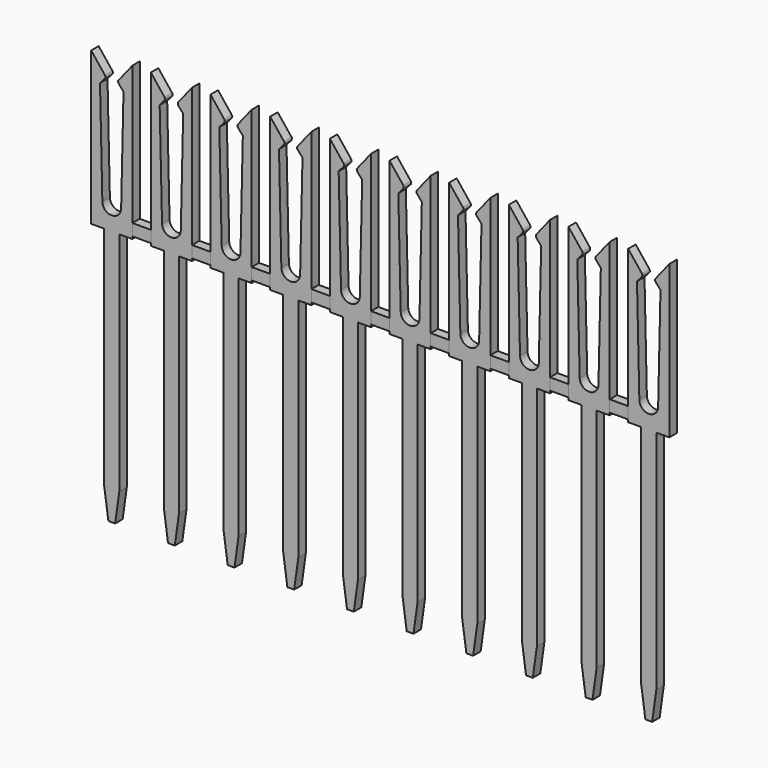
from build123d import *

# Parameters (mm, degrees)
SKETCH005_W            = 22.86
SKETCH005_H            = 0.5
PAD002_DEPTH           = 0.195
PAD001_DEPTH           = 0.2
LINEARPATTERN001_COUNT = 10
LINEARPATTERN001_PITCH = 2.54


with BuildPart() as part:
    # Sketch005 → Pad002 (new body, symmetric)
    with BuildSketch(Plane.XZ):
        with Locations((0, 0.75)):
            Rectangle(SKETCH005_W, SKETCH005_H)
    extrude(amount=PAD002_DEPTH, both=True)

    # Sketch003 → Pad001 (join, symmetric)
    with BuildSketch(Plane.XZ):
        with BuildLine():
            Line((-11.11, 0.4), (-11.11, -9.25))
            Line((-11.11, -9.25), (-11.285676, -10.5))
            Line((-11.285676, -10.5), (-11.574324, -10.5))
            Line((-11.75, -9.25), (-11.574324, -10.5))
            Line((-11.75, -9.25), (-11.75, 0.4))
            Line((-11.75, 0.4), (-12.305, 0.4))
            Line((-12.305, 0.4), (-12.305, 6.9))
            Line((-12.305, 6.9), (-11.721574, 6.164975))
            ThreePointArc((-11.72433, 6.037311), (-11.699922, 6.100646), (-11.721574, 6.164975))
            Line((-11.72433, 6.037311), (-11.93, 5.8))
            Line((-11.93, 5.8), (-11.829897, 1.390921))
            ThreePointArc((-11.829897, 1.390921), (-11.43, 1), (-11.030103, 1.390921))
            Line((-10.93, 5.8), (-11.030103, 1.390921))
            Line((-11.13567, 6.037311), (-10.93, 5.8))
            ThreePointArc((-11.138426, 6.164975), (-11.160078, 6.100646), (-11.13567, 6.037311))
            Line((-10.555, 6.9), (-11.138426, 6.164975))
            Line((-10.555, 0.4), (-10.555, 6.9))
            Line((-11.11, 0.4), (-10.555, 0.4))
        make_face()
    pad001 = extrude(amount=PAD001_DEPTH, both=True)

    # LinearPattern001: Pad001 ×10
    with Locations(*[(i * LINEARPATTERN001_PITCH, 0, 0) for i in range(1, LINEARPATTERN001_COUNT)]):
        add(pad001)


solid = part.part
